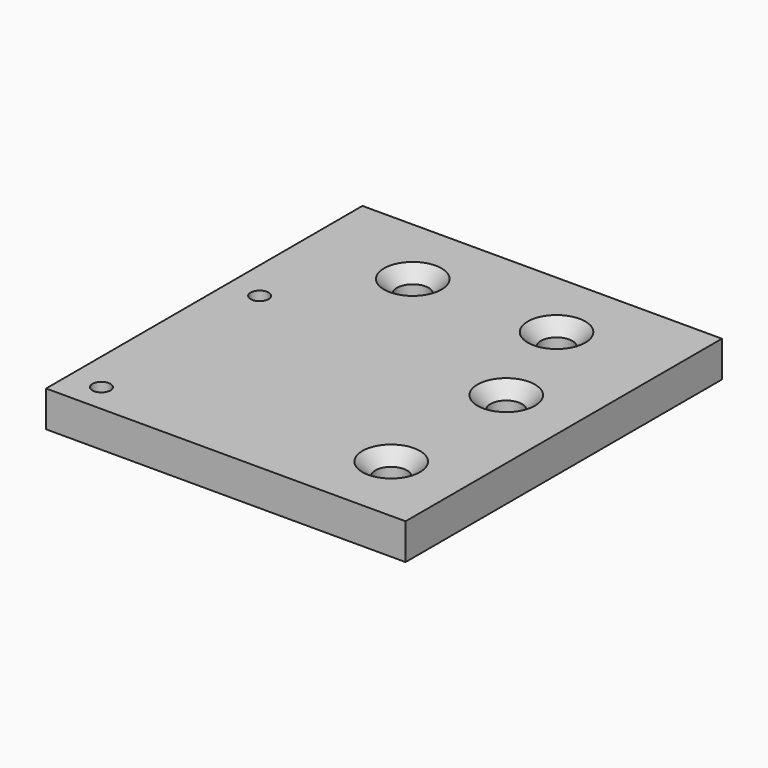
from build123d import *

# Parameters (mm, degrees)
SKETCH_W               = 100
SKETCH_H               = 110
PAD_DEPTH              = 10
SKETCH001_R            = 2.5
HOLE_DEPTH             = 10.001
LINEARPATTERN_COUNT    = 2
LINEARPATTERN_PITCH    = 55
HOLE001_D              = 8.8
HOLE001_CSINK_D        = 16
HOLE001_CSINK_ANGLE    = 90
LINEARPATTERN001_COUNT = 2
LINEARPATTERN001_PITCH = 40
HOLE002_D              = 8.8
HOLE002_CSINK_D        = 16
HOLE002_CSINK_ANGLE    = 90
LINEARPATTERN002_COUNT = 2
LINEARPATTERN002_PITCH = 40


with BuildPart() as part:
    # Sketch → Pad (new body)
    with BuildSketch(Plane.XY):
        with Locations((50, 55)):
            Rectangle(SKETCH_W, SKETCH_H)
    extrude(amount=PAD_DEPTH)

    # Sketch001 (on Face6 of Pad) → Hole (cut, through all)
    with BuildSketch(Plane.XY.offset(10)):
        with Locations((9, 8)):
            Circle(SKETCH001_R)
    hole = extrude(amount=-HOLE_DEPTH, mode=Mode.SUBTRACT)

    # LinearPattern: Hole ×2
    with Locations(*[(0, i * LINEARPATTERN_PITCH, 0) for i in range(1, LINEARPATTERN_COUNT)]):
        add(hole, mode=Mode.SUBTRACT)

    # Hole001 (through all)
    with Locations(Plane.XY.offset(10)):
        with Locations((80, 20)):
            hole001 = CounterSinkHole(HOLE001_D / 2, HOLE001_CSINK_D / 2, counter_sink_angle=HOLE001_CSINK_ANGLE)

    # LinearPattern001: Hole001 ×2
    with Locations(*[(0, i * LINEARPATTERN001_PITCH, 0) for i in range(1, LINEARPATTERN001_COUNT)]):
        add(hole001, mode=Mode.SUBTRACT)

    # Hole002 (through all)
    with Locations(Plane.XY.offset(10)):
        with Locations((30, 90)):
            hole002 = CounterSinkHole(HOLE002_D / 2, HOLE002_CSINK_D / 2, counter_sink_angle=HOLE002_CSINK_ANGLE)

    # LinearPattern002: Hole002 ×2
    with Locations(*[(i * LINEARPATTERN002_PITCH, 0, 0) for i in range(1, LINEARPATTERN002_COUNT)]):
        add(hole002, mode=Mode.SUBTRACT)


solid = part.part
